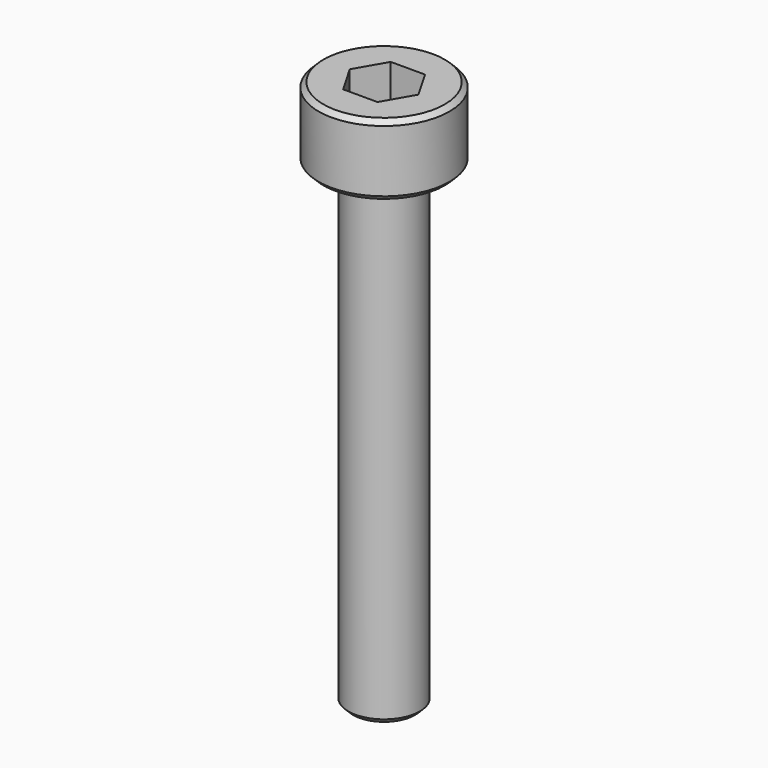
from build123d import *

# Parameters (mm, degrees)
SKETCH_R     = 2.75
PAD_DEPTH    = 3
SKETCH001_R  = 1.5
PAD001_DEPTH = 20
POCKET_DEPTH = 4
CHAMFER_SIZE = 0.2


with BuildPart() as part:
    # Sketch → Pad (new body)
    with BuildSketch(Plane.XY):
        Circle(SKETCH_R)
    extrude(amount=PAD_DEPTH)

    # Sketch001 (on Face2 of Pad) → Pad001 (join)
    with BuildSketch(Plane(origin=(0, 0, 0), x_dir=(1, 0, 0), z_dir=(0, 0, -1))):
        Circle(SKETCH001_R)
    extrude(amount=PAD001_DEPTH)

    # Sketch002 (on DatumPlane) → Pocket (cut)
    with BuildSketch(Plane.XY.offset(3)):
        Polygon((0.721688, -1.25), (1.443376, 0), (0.721688, 1.25), (-0.721688, 1.25), (-1.443376, 0), (-0.721688, -1.25), align=None)
    extrude(amount=-POCKET_DEPTH, mode=Mode.SUBTRACT)

    # Chamfer
    chamfer_edges = [part.edges().sort_by_distance(p)[0] for p in [
        (-1.5, 0, -20),
        (-2.75, 0, 0),
        (-2.75, 0, 3),
    ]]
    chamfer(chamfer_edges, length=CHAMFER_SIZE)


solid = part.part
